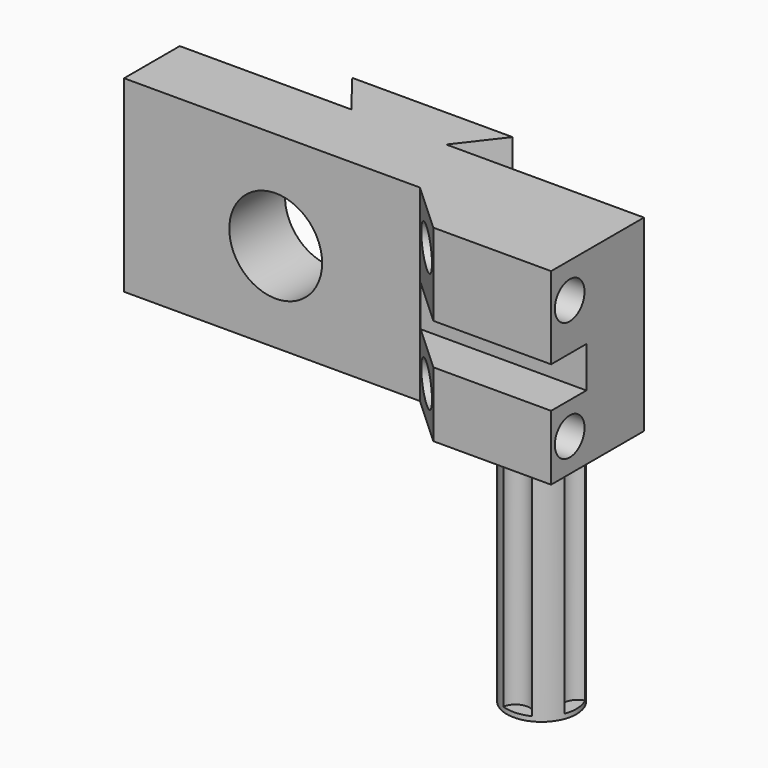
from build123d import *

# Parameters (mm, degrees)
F0_W      = 25.4
F0_H      = 10.287
F0_R      = 2.54
F1_DEPTH  = 6.35
F2_R      = 1.016
F2_W      = 2.413
F2_H      = 2.2386033088
F3_DEPTH  = 25.4
F5_DEPTH  = 25.4
F6_R      = 1.905
F7_DEPTH  = 12.7
F8_R      = 0.7687670518
F9_DEPTH  = 12.446
F11_DEPTH = 10.287
F12_W     = 8.7730400264
F12_H     = 4.7847703099
F13_DEPTH = 2.3083774


with BuildPart() as f1:
    # F0 (on Front) → F1 (new body)
    with BuildSketch(Plane.XZ):
        with Locations((-48.4233582392, 32.1346397566)):
            Rectangle(F0_W, F0_H)
        with Locations((-52.8246313334, 31.8967439234)):
            Circle(F0_R, mode=Mode.SUBTRACT)
    extrude(amount=F1_DEPTH)

    # F2 (on face) → F3 (cut)
    with BuildSketch(Plane.YZ.offset(-35.7233582392)):
        with Locations((-5.08, 28.8009606302)):
            Circle(F2_R)
        with Locations((-5.08, 35.3567898273)):
            Circle(F2_R)
        with Locations((-5.1435, 31.6693251953)):
            Rectangle(F2_W, F2_H)
    extrude(amount=-F3_DEPTH, mode=Mode.SUBTRACT)

    # F4 (on face) → F5 (cut)
    with BuildSketch(Plane(origin=(0, 0, 26.9911397566), x_dir=(1, 0, 0), z_dir=(0, 0, -1))):
        Polygon((-44.9340231717, 3.81), (-42.169496417, 6.35), (-61.1233582392, 6.35), (-61.1233582392, 3.81), align=None)
    extrude(amount=-F5_DEPTH, mode=Mode.SUBTRACT)

    # F6 (on face) → F7 (join)
    with BuildSketch(Plane(origin=(0, 0, 26.9911397566), x_dir=(1, 0, 0), z_dir=(0, 0, -1))):
        with Locations((-38.7569256127, 3.2096616924)):
            Circle(F6_R)
    extrude(amount=F7_DEPTH)

    # F8 (on face) → F9 (cut)
    with BuildSketch(Plane(origin=(0, 0, 26.9911397566), x_dir=(1, 0, 0), z_dir=(0, 0, -1))):
        with Locations((-38.6601233606, 5.1122006076)):
            Circle(F8_R)
        with Locations((-40.6594645279, 3.3064639445)):
            Circle(F8_R)
        with Locations((-38.8537278648, 1.3071227771)):
            Circle(F8_R)
        with Locations((-36.8543866975, 3.1128594402)):
            Circle(F8_R)
    extrude(amount=F9_DEPTH, mode=Mode.SUBTRACT)

    # F10 (on face) → F11 (join)
    with BuildSketch(Plane.XY.offset(37.2781397566)):
        Polygon((-51.73950345, 0), (-46.5462200276, 0), (-44.7563417256, 2.3083709979), (-53.529381752, 2.3083709979), align=None)
    extrude(amount=-F11_DEPTH)

    # F12 (on face) → F13 (cut)
    with BuildSketch(Plane(origin=(0, 2.3083709979, 0), x_dir=(-1, 0, 0), z_dir=(0, 1, 0))):
        with Locations((49.1428617388, 32.0255719125)):
            Rectangle(F12_W, F12_H)
    extrude(amount=-F13_DEPTH, mode=Mode.SUBTRACT)


solid = f1.part
